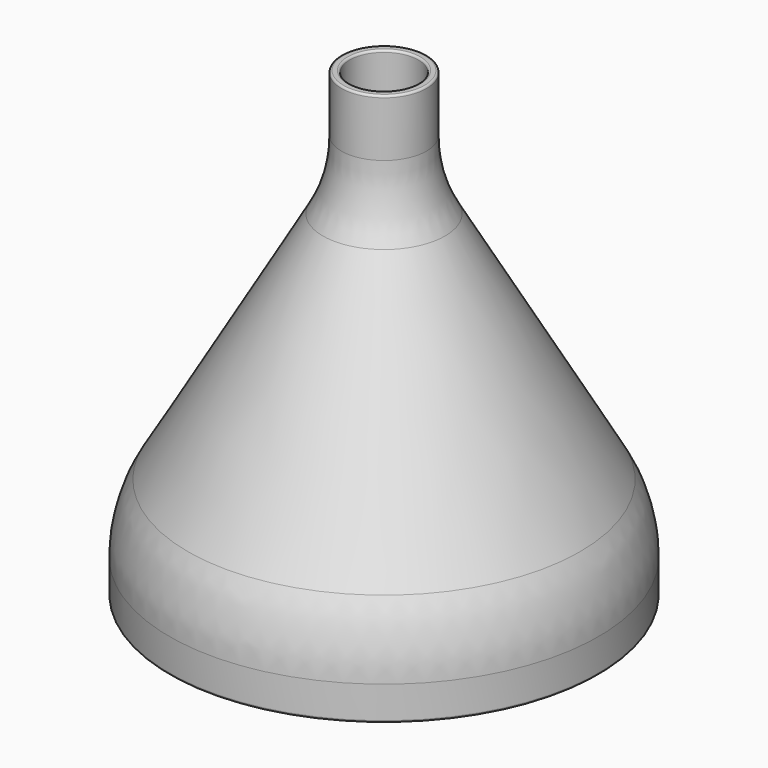
from build123d import *

# Parameters (mm, degrees)
F2_R = 20
F3_R = 0.3
F4_R = 0.3


with BuildPart() as f1:
    # F0 (on Front) → F1 (revolve)
    with BuildSketch(Plane.XZ):
        Polygon((-31.2, 0), (-30, 0), (-30, 10), (-5, 53.30127), (-5, 67.30127), (-6.2, 67.30127), (-6.2, 53.622809), (-31.2, 10.321539), align=None)
    revolve(axis=Axis((0, 0, 8.207551), (0, 0, 1)))

    # F2
    f2_edges = [f1.edges().sort_by_distance(p)[0] for p in [
        (31.2, 0, 10.321539),
        (6.2, 0, 53.622809),
    ]]
    fillet(f2_edges, radius=F2_R)

    # F3
    f3_edges = [f1.edges().sort_by_distance(p)[0] for p in [
        (5, 0, 67.30127),
        (6.2, 0, 67.30127),
    ]]
    fillet(f3_edges, radius=F3_R)

    # F4
    f4_edges = [f1.edges().sort_by_distance(p)[0] for p in [
        (31.2, 0, 0),
        (30, 0, 0),
    ]]
    fillet(f4_edges, radius=F4_R)


solid = f1.part
